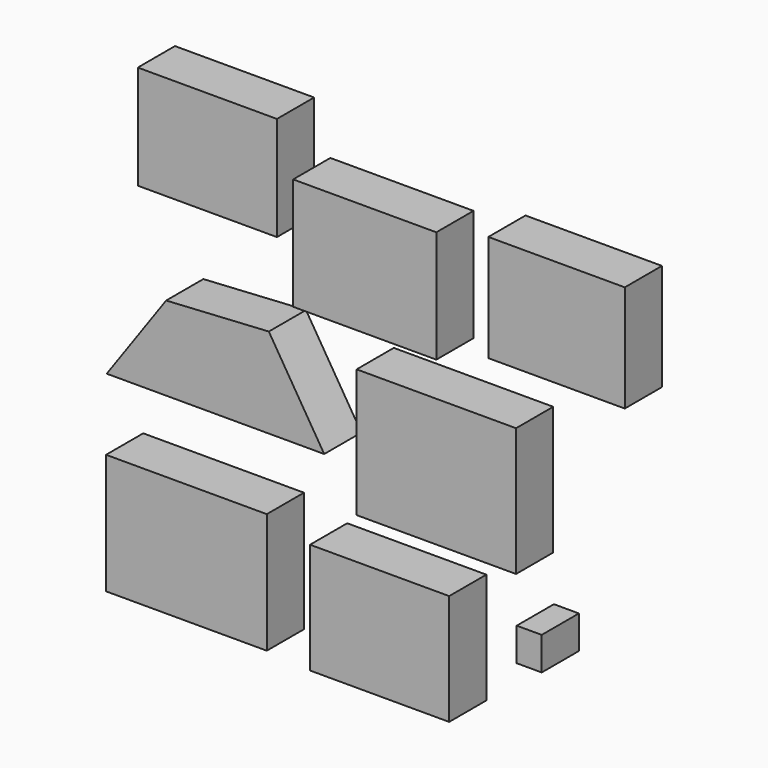
from build123d import *

# Parameters (mm, degrees)
F0_W     = 38.024813
F0_H     = 28.425179
F0_W_2   = 43.931581
F0_H_2   = 32.855079
F0_W_3   = 38.024816
F0_H_3   = 30.270972
F0_W_4   = 6.829694
F0_H_4   = 9.044377
F0_W_5   = 43.562405
F0_H_5   = 35.070029
F0_W_6   = 39.132336
F0_H_6   = 30.640132
F0_W_7   = 37.286467
F0_H_7   = 29.163495
F1_DEPTH = 12.7


with BuildPart() as f1:
    # F0 (on Front) → F1 (new body)
    with BuildSketch(Plane.XZ):
        with Locations((-44.720783, 62.202751)):
            Rectangle(F0_W, F0_H)
        with Locations((-50.442963, -35.993326)):
            Rectangle(F0_W_2, F0_H_2)
        with Locations((2.34877, -38.208276)):
            Rectangle(F0_W_3, F0_H_3)
        with Locations((43.234676, -28.702453)):
            Rectangle(F0_W_4, F0_H_4)
        with Locations((17.854034, 5.721548)):
            Rectangle(F0_W_5, F0_H_5)
        with Locations((-1.712133, 47.990162)):
            Rectangle(F0_W_6, F0_H_6)
        with Locations((50.710428, 52.23548)):
            Rectangle(F0_W_7, F0_H_7)
        Polygon((-27.923414, 24.548616), (-55.980559, 22.887405), (-72.22417, 0), (-12.787322, 0), align=None)
    extrude(amount=F1_DEPTH)


solid = f1.part
